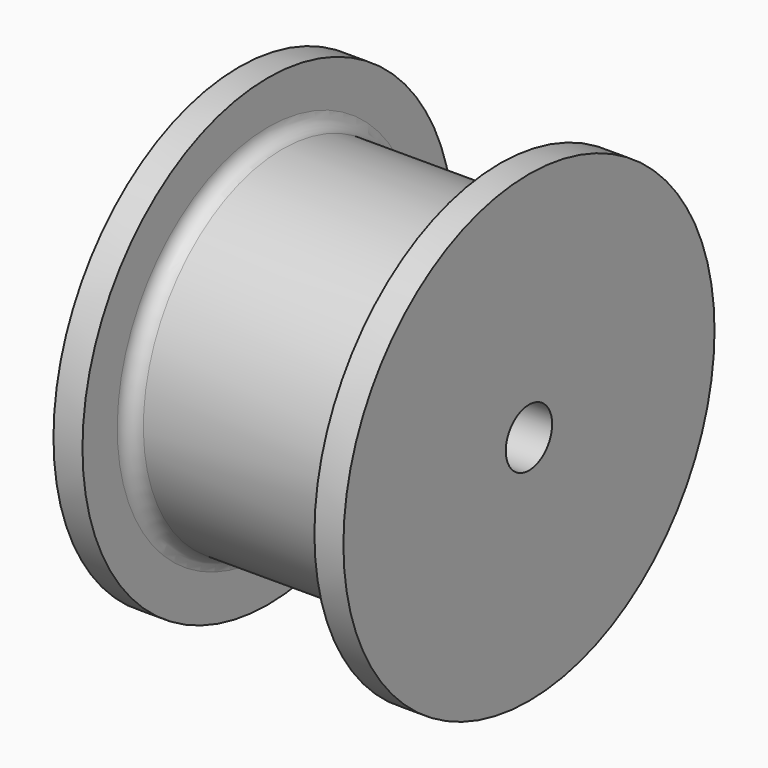
from build123d import *

# Parameters (mm, degrees)
F0_R          = 50.8
F1_DEPTH      = 31.75
F4_R          = 6.35
F5_DEPTH      = 31.751
F5_DEPTH_BACK = 31.751


with BuildPart() as f1:
    # F0 (on Right) → F1 (new body, symmetric)
    with BuildSketch(Plane.YZ):
        Circle(F0_R)
    extrude(amount=F1_DEPTH, both=True)

    # F2 (on Front) → F3 (revolve, cut)
    with BuildSketch(Plane.XZ):
        with BuildLine():
            ThreePointArc((25.4, 74.3732936617), (24.4700640303, 76.618357692), (22.225, 77.5482936617))
            Line((22.225, 77.5482936617), (-22.225, 77.5482936617))
            ThreePointArc((-22.225, 77.5482936617), (-24.4700640303, 76.618357692), (-25.4, 74.3732936617))
            Line((-25.4, 74.3732936617), (-25.4, 41.275))
            ThreePointArc((-25.4, 41.275), (-24.4700640303, 39.0299359697), (-22.225, 38.1))
            Line((-22.225, 38.1), (22.225, 38.1))
            ThreePointArc((22.225, 38.1), (24.4700640303, 39.0299359697), (25.4, 41.275))
            Line((25.4, 41.275), (25.4, 74.3732936617))
        make_face()
    revolve(axis=Axis((0, 0, 0), (1, 0, 0)), mode=Mode.SUBTRACT)

    # F4 (on Right) → F5 (cut, two sides)
    with BuildSketch(Plane.YZ) as f5_sk:
        Circle(F4_R)
    extrude(amount=-F5_DEPTH, mode=Mode.SUBTRACT)
    extrude(f5_sk.sketch, amount=F5_DEPTH_BACK, mode=Mode.SUBTRACT)


solid = f1.part
